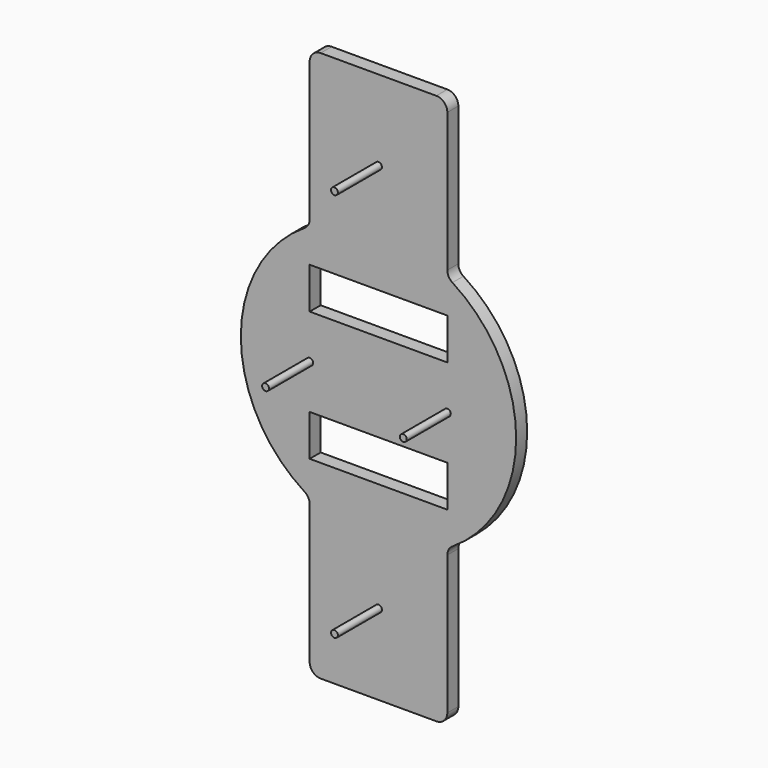
from build123d import *

# Parameters (mm, degrees)
F1_DEPTH = 6.35
F2_R     = 5.08
F3_W     = 63.5
F3_H     = 19.05
F4_DEPTH = 25.4
F5_R     = 1.5875
F6_DEPTH = 25.4


with BuildPart() as f1:
    # F0 (on Front) → F1 (new body)
    with BuildSketch(Plane.XZ):
        with BuildLine():
            ThreePointArc((31.75, -54.9926131403), (54.9926131403, -31.75), (63.5, 0))
            ThreePointArc((63.5, 0), (54.9926131403, 31.75), (31.75, 54.9926131403))
            Line((31.75, 54.9926131403), (31.75, -54.9926131403))
        make_face()
        with BuildLine():
            Line((31.75, -54.9926131403), (31.75, 54.9926131403))
            ThreePointArc((31.75, 54.9926131403), (0, 63.5), (-31.75, 54.9926131403))
            Line((-31.75, 54.9926131403), (-31.75, -54.9926131403))
            ThreePointArc((-31.75, -54.9926131403), (0, -63.5), (31.75, -54.9926131403))
        make_face()
        with BuildLine():
            ThreePointArc((-31.75, 54.9926131403), (0, 63.5), (31.75, 54.9926131403))
            Line((31.75, 54.9926131403), (31.75, 127))
            Line((31.75, 127), (-31.75, 127))
            Line((-31.75, 127), (-31.75, 54.9926131403))
        make_face()
        with BuildLine():
            Line((31.75, -127), (31.75, -54.9926131403))
            ThreePointArc((31.75, -54.9926131403), (0, -63.5), (-31.75, -54.9926131403))
            Line((-31.75, -54.9926131403), (-31.75, -127))
            Line((-31.75, -127), (31.75, -127))
        make_face()
        with BuildLine():
            Line((-31.75, -54.9926131403), (-31.75, 54.9926131403))
            ThreePointArc((-31.75, 54.9926131403), (-63.5, 0), (-31.75, -54.9926131403))
        make_face()
    extrude(amount=F1_DEPTH)

    # F2
    f2_edges = [f1.edges().sort_by_distance(p)[0] for p in [
        (31.75, -3.175, 54.992613),
        (-31.75, -3.175, 54.992613),
        (-31.75, -3.175, -54.992613),
        (31.75, -3.175, -54.992613),
        (31.75, -3.175, 127),
        (-31.75, -3.175, 127),
        (31.75, -3.175, -127),
        (-31.75, -3.175, -127),
    ]]
    fillet(f2_edges, radius=F2_R)

    # F3 (on face) → F4 (cut)
    with BuildSketch(Plane.XZ.offset(6.35)):
        with Locations((0, 29.8867885709)):
            Rectangle(F3_W, F3_H)
        with Locations((0, -29.8867885709)):
            Rectangle(F3_W, F3_H)
    extrude(amount=-F4_DEPTH, mode=Mode.SUBTRACT)

    # F5 (on face) → F6 (join)
    with BuildSketch(Plane.XZ.offset(6.35)):
        with Locations((-31.75, 0)):
            Circle(F5_R)
        with Locations((31.75, 0)):
            Circle(F5_R)
        with Locations((0, -89.8856266138)):
            Circle(F5_R)
        with Locations((0, 89.8856266138)):
            Circle(F5_R)
    extrude(amount=F6_DEPTH)


solid = f1.part
